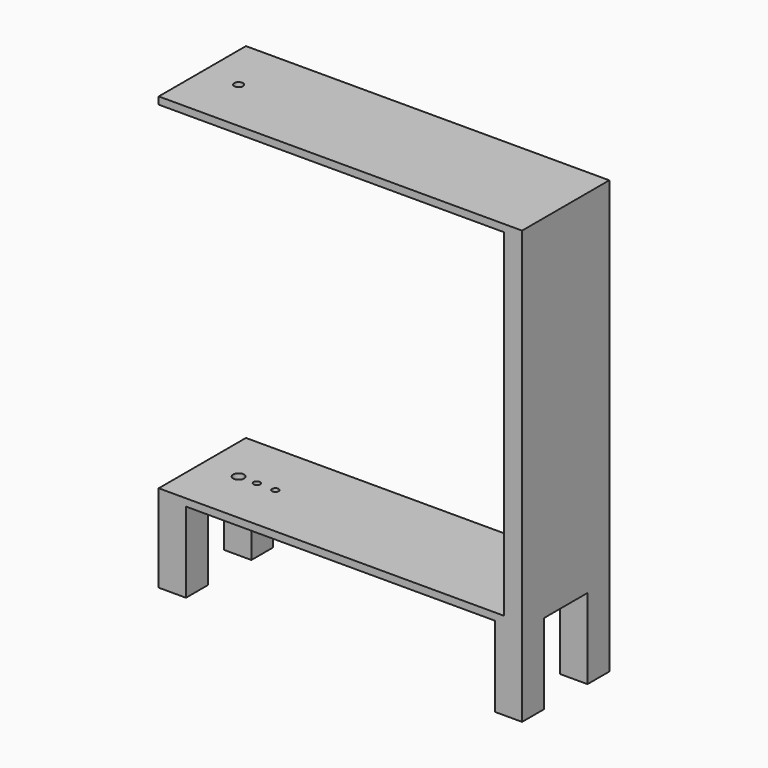
from build123d import *

# Parameters (mm, degrees)
F1_DEPTH = 38.1
F2_R     = 3.048
F3_DEPTH = 246.2286
F4_W     = 19.05
F4_H     = 19.05
F5_DEPTH = 56.134
F6_R     = 2.286
F6_R_2   = 3.81
F6_R_3   = 3.048
F7_DEPTH = 25.4


with BuildPart() as f1:
    # F0 (on Front) → F1 (new body, symmetric)
    with BuildSketch(Plane.XZ):
        Polygon((127, 123.1138), (-127, 123.1138), (-127, 118.0338), (-114.3, 118.0338), (114.3, 118.0338), (114.3, -118.0338), (-114.3, -118.0338), (-127, -118.0338), (-127, -123.1138), (127, -123.1138), align=None)
    extrude(amount=F1_DEPTH, both=True)

    # F2 (on face) → F3 (cut, through all)
    with BuildSketch(Plane.XY.offset(123.1138)):
        with Locations((-101.6, 0)):
            Circle(F2_R)
    extrude(amount=-F3_DEPTH, mode=Mode.SUBTRACT)

    # F4 (on face) → F5 (join)
    with BuildSketch(Plane(origin=(0, 0, -123.1138), x_dir=(1, 0, 0), z_dir=(0, 0, -1))):
        with Locations((-117.475, 28.575)):
            Rectangle(F4_W, F4_H)
        with Locations((-117.475, -28.575)):
            Rectangle(F4_W, F4_H)
        with Locations((117.475, 28.575)):
            Rectangle(F4_W, F4_H)
        with Locations((117.475, -28.575)):
            Rectangle(F4_W, F4_H)
    extrude(amount=F5_DEPTH)

    # F6 (on face) → F7 (cut)
    with BuildSketch(Plane(origin=(0, 0, -123.1138), x_dir=(1, 0, 0), z_dir=(0, 0, -1))):
        with Locations((-88.9, 0)):
            Circle(F6_R)
        with Locations((-75.946, 0)):
            Circle(F6_R)
        with Locations((-101.6, 0)):
            Circle(F6_R_2)
        with Locations((-101.6, 0)):
            Circle(F6_R_3, mode=Mode.SUBTRACT)
    extrude(amount=-F7_DEPTH, mode=Mode.SUBTRACT)


solid = f1.part
